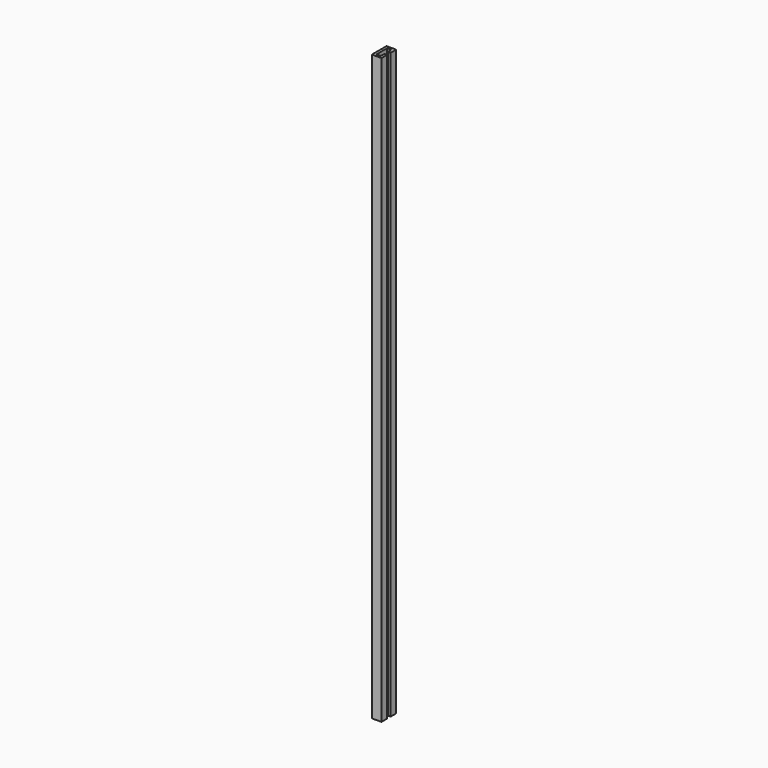
from build123d import *

# Parameters (mm, degrees)
F0_W     = 11
F0_H     = 21
F1_DEPTH = 670
F2_W     = 5
F2_H     = 15
F3_DEPTH = 670
F4_W     = 10.772688
F4_H     = 2.595666
F4_H_2   = 2.404334
F5_DEPTH = 670


with BuildPart() as f1:
    # F0 (on Top) → F1 (new body)
    with BuildSketch(Plane.XY):
        Rectangle(F0_W, F0_H)
    extrude(amount=F1_DEPTH)

    # F2 (on face) → F3 (cut)
    with BuildSketch(Plane.XY.offset(670)):
        Rectangle(F2_W, F2_H)
    extrude(amount=-F3_DEPTH, mode=Mode.SUBTRACT)

    # F4 (on face) → F5 (cut)
    with BuildSketch(Plane.XY.offset(670)):
        with Locations((5.386344, 1.297833)):
            Rectangle(F4_W, F4_H)
        with Locations((5.386344, -1.202167)):
            Rectangle(F4_W, F4_H_2)
    extrude(amount=-F5_DEPTH, mode=Mode.SUBTRACT)


solid = f1.part
